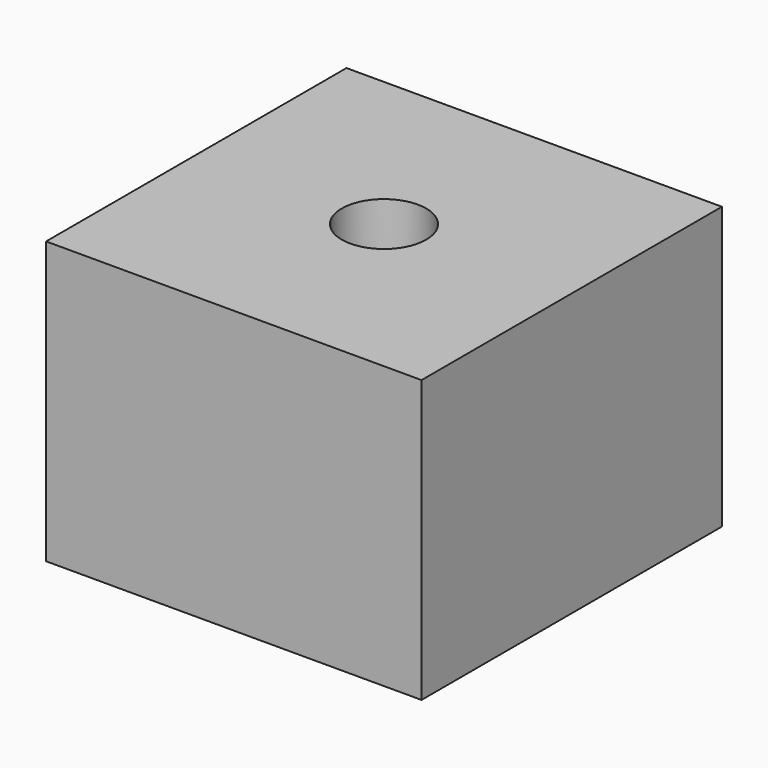
from build123d import *

# Parameters (mm, degrees)
F0_W     = 20
F0_H     = 20
F1_DEPTH = 15
F2_R     = 2.25
F3_DEPTH = 15.001
F4_W     = 7
F4_H     = 2.5
F5_DEPTH = 12.5


with BuildPart() as f1:
    # F0 (on Top) → F1 (new body)
    with BuildSketch(Plane.XY):
        Rectangle(F0_W, F0_H)
    extrude(amount=F1_DEPTH)

    # F2 (on face) → F3 (cut, through all)
    with BuildSketch(Plane.XY.offset(15)):
        Circle(F2_R)
    extrude(amount=-F3_DEPTH, mode=Mode.SUBTRACT)

    # F4 (on face) → F5 (cut)
    with BuildSketch(Plane(origin=(-10, 0, 0), x_dir=(0, -1, 0), z_dir=(-1, 0, 0))):
        with Locations((0.59865, 4.25)):
            Rectangle(F4_W, F4_H)
        with Locations((0.59865, 10.75)):
            Rectangle(F4_W, F4_H)
    extrude(amount=-F5_DEPTH, mode=Mode.SUBTRACT)


solid = f1.part
